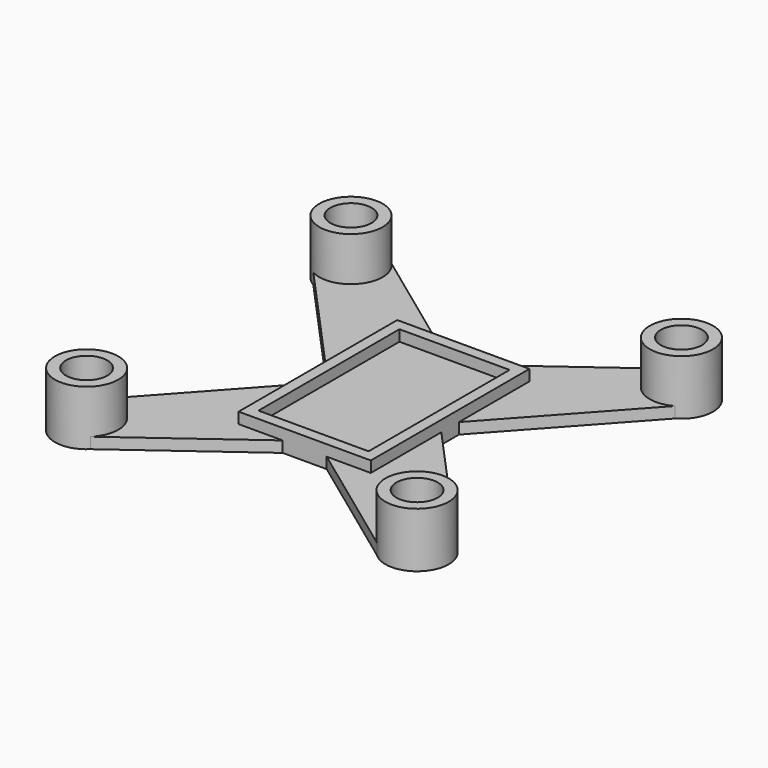
from build123d import *

# Parameters (mm, degrees)
F0_W     = 20
F0_H     = 32
F0_R     = 3.75
F1_DEPTH = 2
F2_DEPTH = 10
F3_DEPTH = 4


with BuildPart() as f1:
    # F0 (on Top) → F1 (new body)
    with BuildSketch(Plane.XY):
        Polygon((4, 18), (-4, 18), (-12, 18), (-12, 2), (-12, -2), (-12, -18), (-4, -18), (4, -18), (12, -18), (12, -2), (12, 2), (12, 18), align=None)
        Rectangle(F0_W, F0_H, mode=Mode.SUBTRACT)
        Rectangle(F0_W, F0_H)
        with BuildLine():
            Line((32.8394541729, -25), (12, -2))
            Line((12, -2), (12, -18))
            Line((12, -18), (4, -18))
            Line((4, -18), (26, -34.1306779105))
            ThreePointArc((26, -34.1306779105), (25.397931288, -26.552760007), (32.8394541729, -25))
        make_face()
        with BuildLine():
            Line((-12, -18), (-12, -2))
            Line((-12, -2), (-32.8394541729, -25))
            ThreePointArc((-32.8394541729, -25), (-27.1072816845, -25.0306257188), (-24.25, -30))
            ThreePointArc((-24.25, -30), (-24.7055453539, -32.2430448056), (-26, -34.1306779105))
            Line((-26, -34.1306779105), (-4, -18))
            Line((-4, -18), (-12, -18))
        make_face()
        with BuildLine():
            Line((26, 34.1306779105), (4, 18))
            Line((4, 18), (12, 18))
            Line((12, 18), (12, 2))
            Line((12, 2), (32.8394541729, 25))
            ThreePointArc((32.8394541729, 25), (25.397931288, 26.552760007), (26, 34.1306779105))
        make_face()
        with BuildLine():
            ThreePointArc((-26, 34.1306779105), (-24.7055453539, 32.2430448056), (-24.25, 30))
            ThreePointArc((-24.25, 30), (-27.1072816845, 25.0306257188), (-32.8394541729, 25))
            Line((-32.8394541729, 25), (-12, 2))
            Line((-12, 2), (-12, 18))
            Line((-12, 18), (-4, 18))
            Line((-4, 18), (-26, 34.1306779105))
        make_face()
        with BuildLine():
            ThreePointArc((35.75, -30), (34.9693742812, -27.1072816845), (32.8394541729, -25))
            ThreePointArc((32.8394541729, -25), (25.397931288, -26.552760007), (26, -34.1306779105))
            ThreePointArc((26, -34.1306779105), (32.2430448056, -35.2944546461), (35.75, -30))
        make_face()
        with Locations((30, -30)):
            Circle(F0_R, mode=Mode.SUBTRACT)
        with BuildLine():
            ThreePointArc((35.75, 30), (32.2430448056, 35.2944546461), (26, 34.1306779105))
            ThreePointArc((26, 34.1306779105), (25.397931288, 26.552760007), (32.8394541729, 25))
            ThreePointArc((32.8394541729, 25), (34.9693742812, 27.1072816845), (35.75, 30))
        make_face()
        with Locations((30, 30)):
            Circle(F0_R, mode=Mode.SUBTRACT)
        with BuildLine():
            ThreePointArc((-32.8394541729, 25), (-27.1072816845, 25.0306257188), (-24.25, 30))
            ThreePointArc((-24.25, 30), (-24.7055453539, 32.2430448056), (-26, 34.1306779105))
            ThreePointArc((-26, 34.1306779105), (-34.602068712, 33.447239993), (-32.8394541729, 25))
        make_face()
        with Locations((-30, 30)):
            Circle(F0_R, mode=Mode.SUBTRACT)
        with BuildLine():
            ThreePointArc((-24.25, -30), (-27.1072816845, -25.0306257188), (-32.8394541729, -25))
            ThreePointArc((-32.8394541729, -25), (-34.602068712, -33.447239993), (-26, -34.1306779105))
            ThreePointArc((-26, -34.1306779105), (-24.7055453539, -32.2430448056), (-24.25, -30))
        make_face()
        with Locations((-30, -30)):
            Circle(F0_R, mode=Mode.SUBTRACT)
    extrude(amount=F1_DEPTH)

    # F0 (on Top) → F2 (join)
    with BuildSketch(Plane.XY):
        with BuildLine():
            ThreePointArc((-32.8394541729, 25), (-27.1072816845, 25.0306257188), (-24.25, 30))
            ThreePointArc((-24.25, 30), (-24.7055453539, 32.2430448056), (-26, 34.1306779105))
            ThreePointArc((-26, 34.1306779105), (-34.602068712, 33.447239993), (-32.8394541729, 25))
        make_face()
        with Locations((-30, 30)):
            Circle(F0_R, mode=Mode.SUBTRACT)
        with BuildLine():
            ThreePointArc((35.75, -30), (34.9693742812, -27.1072816845), (32.8394541729, -25))
            ThreePointArc((32.8394541729, -25), (25.397931288, -26.552760007), (26, -34.1306779105))
            ThreePointArc((26, -34.1306779105), (32.2430448056, -35.2944546461), (35.75, -30))
        make_face()
        with Locations((30, -30)):
            Circle(F0_R, mode=Mode.SUBTRACT)
        with BuildLine():
            ThreePointArc((-24.25, -30), (-27.1072816845, -25.0306257188), (-32.8394541729, -25))
            ThreePointArc((-32.8394541729, -25), (-34.602068712, -33.447239993), (-26, -34.1306779105))
            ThreePointArc((-26, -34.1306779105), (-24.7055453539, -32.2430448056), (-24.25, -30))
        make_face()
        with Locations((-30, -30)):
            Circle(F0_R, mode=Mode.SUBTRACT)
        with BuildLine():
            ThreePointArc((35.75, 30), (32.2430448056, 35.2944546461), (26, 34.1306779105))
            ThreePointArc((26, 34.1306779105), (25.397931288, 26.552760007), (32.8394541729, 25))
            ThreePointArc((32.8394541729, 25), (34.9693742812, 27.1072816845), (35.75, 30))
        make_face()
        with Locations((30, 30)):
            Circle(F0_R, mode=Mode.SUBTRACT)
    extrude(amount=F2_DEPTH)

    # F0 (on Top) → F3 (join)
    with BuildSketch(Plane.XY):
        Polygon((4, 18), (-4, 18), (-12, 18), (-12, 2), (-12, -2), (-12, -18), (-4, -18), (4, -18), (12, -18), (12, -2), (12, 2), (12, 18), align=None)
        Rectangle(F0_W, F0_H, mode=Mode.SUBTRACT)
    extrude(amount=F3_DEPTH)


solid = f1.part
